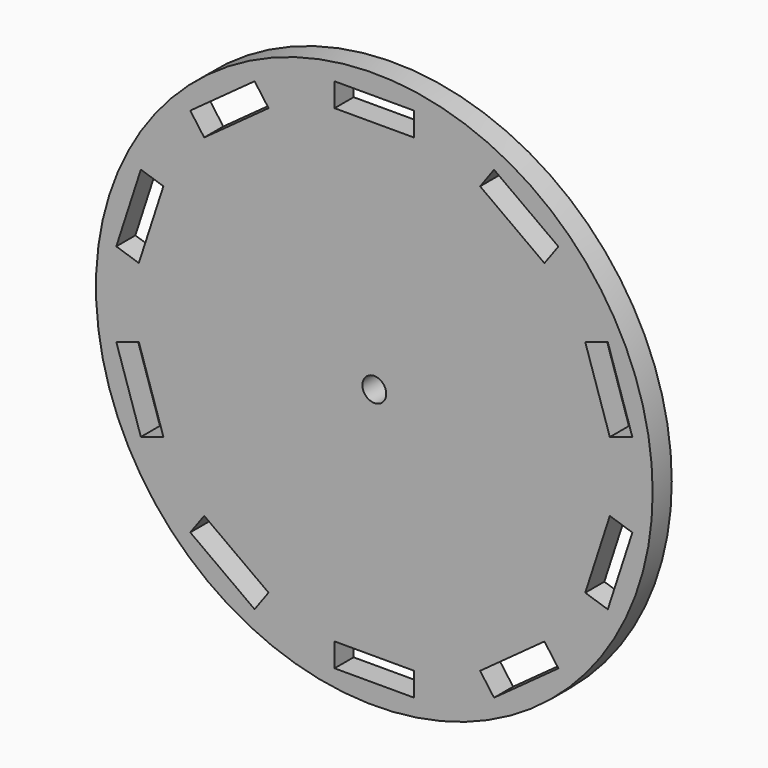
from build123d import *

# Parameters (mm, degrees)
F0_R     = 35
F0_R_2   = 1.5
F1_DEPTH = 3
F2_W     = 10
F2_H     = 2.98
F3_DEPTH = 25


with BuildPart() as f1:
    # F0 (on Front) → F1 (new body)
    with BuildSketch(Plane.XZ):
        Circle(F0_R)
        Circle(F0_R_2, mode=Mode.SUBTRACT)
    extrude(amount=F1_DEPTH)

    # F2 (on face) → F3 (cut)
    with BuildSketch(Plane.XZ.offset(3)):
        with Locations((0, -31)):
            Rectangle(F2_W, F2_H)
        Polygon((23.142228, -23.346036), (21.390628, -20.935165), (13.300458, -26.813018), (15.052058, -29.223888), align=None)
        Polygon((32.444911, -5.28468), (29.610763, -4.363809), (26.520593, -13.874374), (29.354741, -14.795245), align=None)
        Polygon((29.354741, 14.795245), (26.520593, 13.874374), (29.610763, 4.363809), (32.444911, 5.28468), align=None)
        Polygon((15.052058, 29.223888), (13.300458, 26.813018), (21.390628, 20.935165), (23.142228, 23.346036), align=None)
        with Locations((0, 31)):
            Rectangle(F2_W, F2_H)
        Polygon((-23.142228, 23.346036), (-21.390628, 20.935165), (-13.300458, 26.813018), (-15.052058, 29.223888), align=None)
        Polygon((-32.444911, 5.28468), (-29.610763, 4.363809), (-26.520593, 13.874374), (-29.354741, 14.795245), align=None)
        Polygon((-29.354741, -14.795245), (-26.520593, -13.874374), (-29.610763, -4.363809), (-32.444911, -5.28468), align=None)
        Polygon((-15.052058, -29.223888), (-13.300458, -26.813018), (-21.390628, -20.935165), (-23.142228, -23.346036), align=None)
    extrude(amount=-F3_DEPTH, mode=Mode.SUBTRACT)


solid = f1.part
